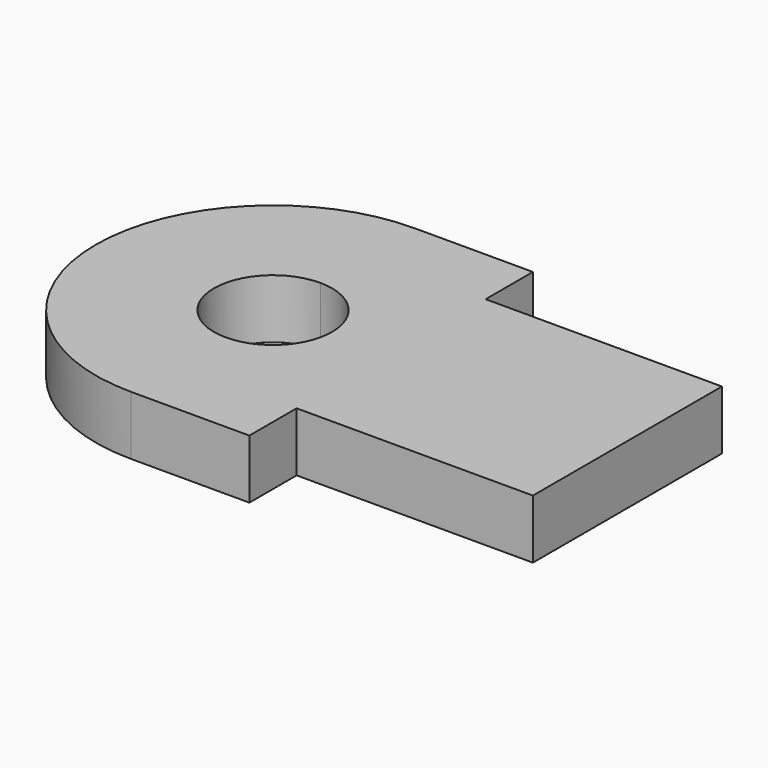
from build123d import *

# Parameters (mm, degrees)
F1_DEPTH = 10


with BuildPart() as f1:
    # F0 (on Top) → F1 (new body)
    with BuildSketch(Plane.XY):
        with BuildLine():
            Line((0, -30), (0, -10))
            ThreePointArc((0, -10), (-10, 0), (0, 10))
            Line((0, 10), (0, 30))
            ThreePointArc((0, 30), (-30, 0), (0, -30))
        make_face()
        with BuildLine():
            ThreePointArc((0, 10), (7.071068, 7.071068), (10, 0))
            Line((10, 0), (60, 0))
            Line((60, 0), (60, 20))
            Line((60, 20), (20, 20))
            Line((20, 20), (20, 30))
            Line((20, 30), (0, 30))
            Line((0, 30), (0, 10))
        make_face()
        with BuildLine():
            ThreePointArc((10, 0), (7.071068, -7.071068), (0, -10))
            Line((0, -10), (0, -30))
            Line((0, -30), (20, -30))
            Line((20, -30), (20, -20))
            Line((20, -20), (60, -20))
            Line((60, -20), (60, 0))
            Line((60, 0), (10, 0))
        make_face()
    extrude(amount=F1_DEPTH)


solid = f1.part
